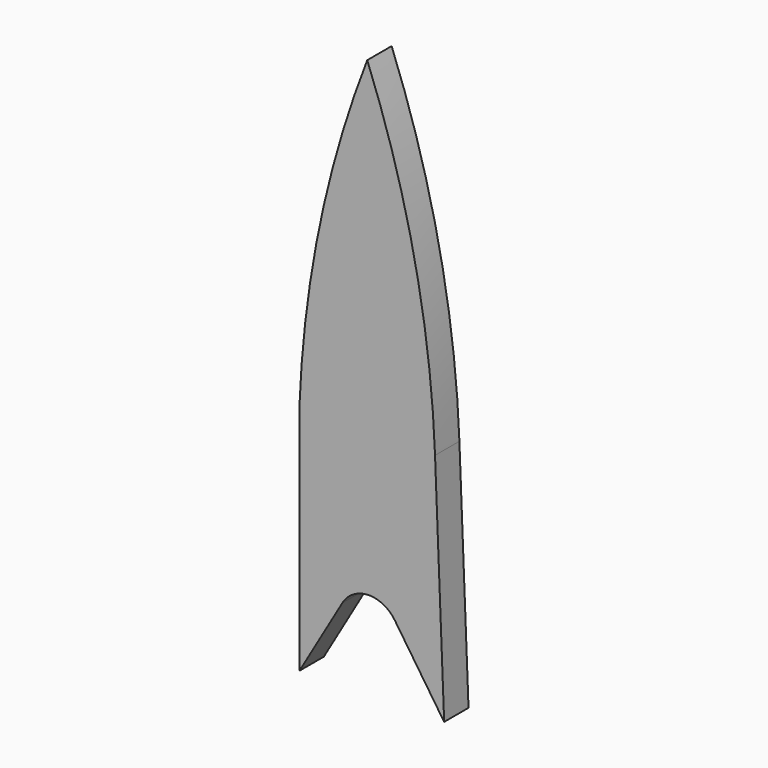
from build123d import *

# Parameters (mm, degrees)
F1_DEPTH = 5
F2_DEPTH = 5


with BuildPart() as f1:
    # F0 (on Front) → F1 (new body)
    with BuildSketch(Plane.XZ):
        with BuildLine():
            ThreePointArc((11.124385, 0), (7.783139, 27.203268), (0, 53.482622))
            ThreePointArc((0, 53.482622), (-7.783139, 27.203268), (-11.124385, 0))
            Line((-11.124385, 0), (11.124385, 0))
        make_face()
    extrude(amount=F1_DEPTH)

    # F0 (on Front) → F2 (join)
    with BuildSketch(Plane.XZ):
        with BuildLine():
            Line((11.124385, 0), (-11.124385, 0))
            Line((-11.124385, 0), (-11.124385, -38.364865))
            Line((-11.124385, -38.364865), (-4.081059, -26.264793))
            ThreePointArc((-4.081059, -26.264793), (0.14515, -23.743036), (4.52543, -25.986524))
            Line((4.52543, -25.986524), (12.621719, -38.031906))
            Line((12.621719, -38.031906), (11.124385, 0))
        make_face()
    extrude(amount=F2_DEPTH)


solid = f1.part
